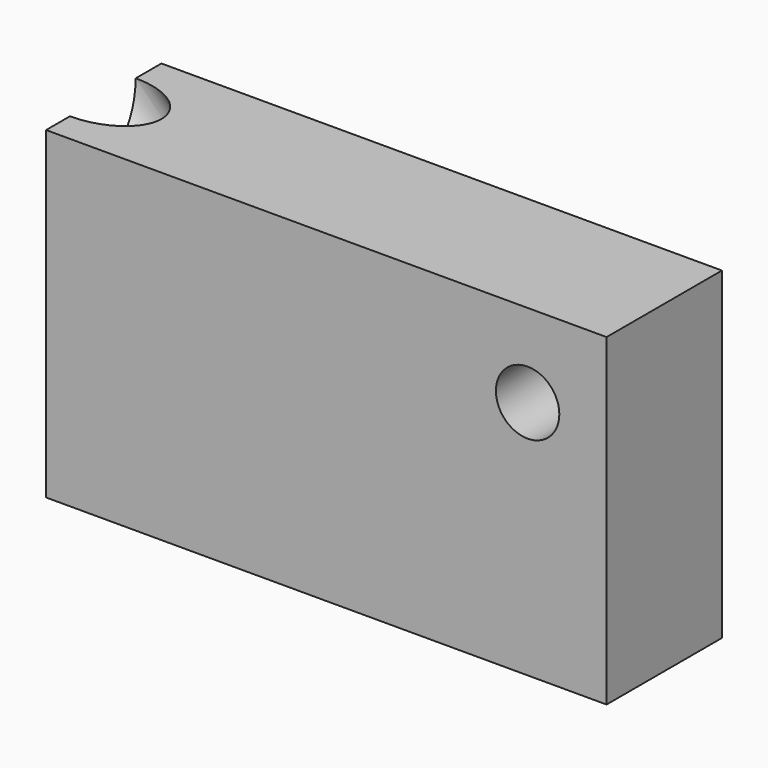
from build123d import *

# Parameters (mm, degrees)
F0_W           = 97.2000025213
F0_H           = 56.100005284
F1_DEPTH       = 25
F5_D           = 11
F5_CBORE_D     = 17.25
F5_CBORE_DEPTH = 10
F6_D           = 8.8
F6_START       = 7.1981119
F6_CBORE_D     = 14.25
F6_CBORE_DEPTH = 8


with BuildPart() as f1:
    # F0 (on Front) → F1 (new body)
    with BuildSketch(Plane.XZ):
        with Locations((-4.0499996394, 4.0500005707)):
            Rectangle(F0_W, F0_H)
    extrude(amount=F1_DEPTH)

    # F5 (through all)
    with Locations(Plane(origin=(0, 0, 0), x_dir=(-1, 0, 0), z_dir=(0, 1, 0))):
        with Locations((-30.8541376144, 17.6449194551)):
            CounterBoreHole(F5_D / 2, F5_CBORE_D / 2, F5_CBORE_DEPTH)

    # F6 (through all)
    # its depths count from where the whole tool has entered the part; down to there all is cleared
    with Locations(Plane(origin=(-42.3750020564, 0, 42.3750020564), x_dir=(0, 1, 0), z_dir=(-0.7071067812, 0, 0.7071067812)).offset(-F6_START)):
        with Locations((-12.6984147355, 14.4579308107)):
            CounterBoreHole(F6_D / 2, F6_CBORE_D / 2, F6_CBORE_DEPTH)


solid = f1.part
